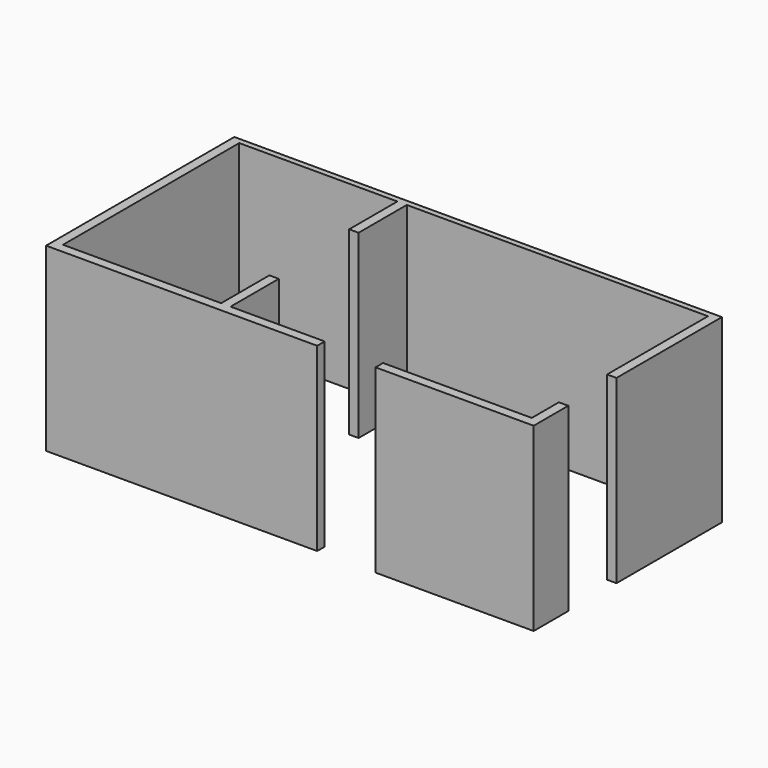
from build123d import *

# Parameters (mm, degrees)
F1_DEPTH = 2438.4


with BuildPart() as f1:
    # F0 (on Top) → F1 (new body)
    with BuildSketch(Plane.XY):
        Polygon((-2217.411592, -586.890213), (-3487.411592, -586.890213), (-3487.411592, 225.909787), (-3614.411592, 225.909787), (-3614.411592, -586.890213), (-5748.011592, -586.890213), (-5748.011592, 2384.909787), (-3614.411592, 2384.909787), (-3614.411592, 1572.109787), (-3487.411592, 1572.109787), (-3487.411592, 2384.909787), (576.588408, 2384.909787), (576.588408, 683.109787), (703.588408, 683.109787), (703.588408, 2461.109787), (-5875.011592, 2461.109787), (-5875.011592, -713.890213), (-2217.411592, -713.890213), align=None)
        Polygon((-1430.011592, -586.890213), (-1430.011592, -713.890213), (703.588408, -713.890213), (703.588408, -129.690213), (576.588408, -129.690213), (576.588408, -586.890213), align=None)
    extrude(amount=F1_DEPTH)


solid = f1.part
